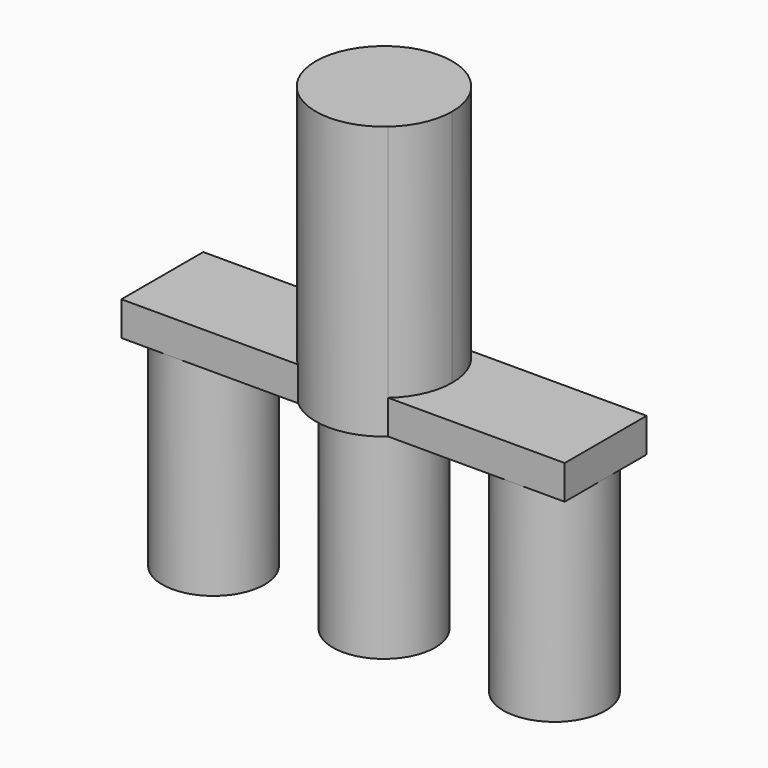
from build123d import *

# Parameters (mm, degrees)
F1_DEPTH = 12.7
F2_DEPTH = 101.6
F4_DEPTH = 25.4
F3_R     = 19.05
F5_DEPTH = 76.2


with BuildPart() as f1:
    # F0 (on Top) → F1 (new body)
    with BuildSketch(Plane.XY):
        with BuildLine():
            ThreePointArc((-16.8005208253, -19.05), (-25.4, 0), (-16.8005208253, 19.05))
            Line((-16.8005208253, 19.05), (-82.55, 19.05))
            Line((-82.55, 19.05), (-82.55, -19.05))
            Line((-82.55, -19.05), (-16.8005208253, -19.05))
        make_face()
    extrude(amount=F1_DEPTH)


with BuildPart() as f1b:
    # F0 (on Top) → F1, piece 2 (new body)
    with BuildSketch(Plane.XY):
        with BuildLine():
            ThreePointArc((16.8005208253, 19.05), (23.1505208253, 10.4505208253), (25.4, 0))
            ThreePointArc((25.4, 0), (23.1505208253, -10.4505208253), (16.8005208253, -19.05))
            Line((16.8005208253, -19.05), (82.55, -19.05))
            Line((82.55, -19.05), (82.55, 19.05))
            Line((82.55, 19.05), (16.8005208253, 19.05))
        make_face()
    extrude(amount=F1_DEPTH)


with BuildPart() as f2:
    # F0 (on Top) → F2 (new body)
    with BuildSketch(Plane.XY):
        with BuildLine():
            ThreePointArc((16.8005208253, -19.05), (23.1505208253, -10.4505208253), (25.4, 0))
            ThreePointArc((25.4, 0), (23.1505208253, 10.4505208253), (16.8005208253, 19.05))
            Line((16.8005208253, 19.05), (-16.8005208253, 19.05))
            ThreePointArc((-16.8005208253, 19.05), (-25.4, 0), (-16.8005208253, -19.05))
            Line((-16.8005208253, -19.05), (16.8005208253, -19.05))
        make_face()
        with BuildLine():
            ThreePointArc((-16.8005208253, -19.05), (0, -25.4), (16.8005208253, -19.05))
            Line((16.8005208253, -19.05), (-16.8005208253, -19.05))
        make_face()
        with BuildLine():
            Line((-16.8005208253, 19.05), (16.8005208253, 19.05))
            ThreePointArc((16.8005208253, 19.05), (0, 25.4), (-16.8005208253, 19.05))
        make_face()
    extrude(amount=F2_DEPTH)


with BuildPart() as f4:
    # F3 (on face) → F4 (new body)
    with BuildSketch(Plane(origin=(0, 0, 0), x_dir=(1, 0, 0), z_dir=(0, 0, -1))):
        with BuildLine():
            ThreePointArc((-19.05, 0), (0, -19.05), (19.05, 0))
            ThreePointArc((19.05, 0), (0, 19.05), (-19.05, 0))
        make_face()
    extrude(amount=F4_DEPTH)


with BuildPart() as f4b:
    # F3 (on face) → F4, piece 2 (new body)
    with BuildSketch(Plane(origin=(0, 0, 0), x_dir=(1, 0, 0), z_dir=(0, 0, -1))):
        with Locations((-63.5, 0)):
            Circle(F3_R)
    extrude(amount=F4_DEPTH)


with BuildPart() as f4c:
    # F3 (on face) → F4, piece 3 (new body)
    with BuildSketch(Plane(origin=(0, 0, 0), x_dir=(1, 0, 0), z_dir=(0, 0, -1))):
        with BuildLine():
            ThreePointArc((82.55, 0), (63.5, 19.05), (44.45, 0))
            ThreePointArc((44.45, 0), (63.5, -19.05), (82.55, 0))
        make_face()
    extrude(amount=F4_DEPTH)


with BuildPart() as f5:
    # F3 (on face) → F5 (new body)
    with BuildSketch(Plane(origin=(0, 0, 0), x_dir=(1, 0, 0), z_dir=(0, 0, -1))):
        with BuildLine():
            ThreePointArc((-19.05, 0), (0, -19.05), (19.05, 0))
            ThreePointArc((19.05, 0), (0, 19.05), (-19.05, 0))
        make_face()
    extrude(amount=F5_DEPTH)


with BuildPart() as f5b:
    # F3 (on face) → F5, piece 2 (new body)
    with BuildSketch(Plane(origin=(0, 0, 0), x_dir=(1, 0, 0), z_dir=(0, 0, -1))):
        with Locations((-63.5, 0)):
            Circle(F3_R)
    extrude(amount=F5_DEPTH)


with BuildPart() as f5c:
    # F3 (on face) → F5, piece 3 (new body)
    with BuildSketch(Plane(origin=(0, 0, 0), x_dir=(1, 0, 0), z_dir=(0, 0, -1))):
        with BuildLine():
            ThreePointArc((82.55, 0), (63.5, 19.05), (44.45, 0))
            ThreePointArc((44.45, 0), (63.5, -19.05), (82.55, 0))
        make_face()
    extrude(amount=F5_DEPTH)


solid = Compound([f1.part, f1b.part, f2.part, f4.part, f4b.part, f4c.part, f5.part, f5b.part, f5c.part])
